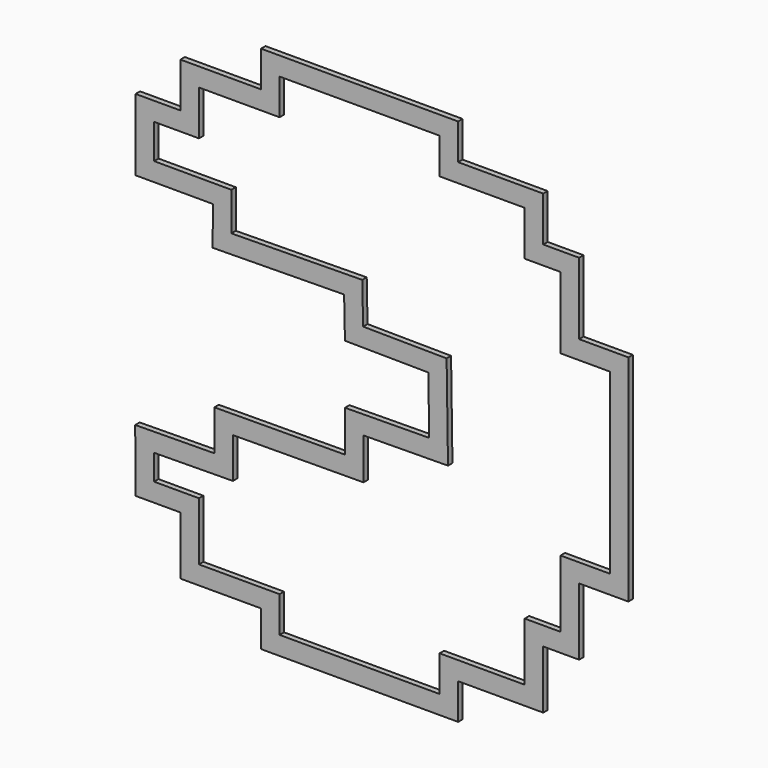
from build123d import *

# Parameters (mm, degrees)
F1_DEPTH = 6


with BuildPart() as f1:
    # F0 (on Front) → F1 (new body)
    with BuildSketch(Plane.XZ):
        Polygon((265.897079, -111.097285), (265.897079, 120.763555), (212.761675, 120.763555), (212.761675, 198.045397), (174.114259, 198.045397), (174.114259, 246.352586), (82.3411, 246.352586), (82.3411, 285.000002), (-130.196029, 285.000002), (-130.196029, 246.352586), (-217.152296, 246.352586), (-217.152296, 198.045397), (-265.461152, 198.045397), (-265.461152, 120.763555), (-182.215667, 120.657777), (-182.292131, 78.99439), (-40.622253, 80.756165), (-39.717878, 37.151925), (50.208882, 36.247385), (51.121586, -25.518982), (-39.717878, -26.429854), (-39.717878, -70.935305), (-180.510698, -71.846343), (-180.510698, -115.447249), (-265.897079, -116.364784), (-265.461152, -183.560564), (-217.152296, -183.560564), (-217.152296, -246.360741), (-130.196029, -246.360741), (-130.196029, -284.999998), (82.3411, -284.999998), (82.3411, -246.360741), (174.114259, -246.360741), (174.114259, -183.560564), (212.761675, -183.560564), (212.761675, -111.097285), align=None)
        Polygon((-160.510697, -135.233492), (-160.510697, -91.717348), (-19.717877, -90.80631), (-19.717877, -46.230316), (71.416314, -45.316488), (69.918447, 56.050147), (-20.124319, 56.955854), (-21.037844, 101.00126), (-162.25493, 99.245116), (-162.178973, 140.632335), (-245.46115, 140.738159), (-245.46115, 178.045396), (-197.152295, 178.045396), (-197.152295, 226.352585), (-110.196027, 226.352585), (-110.196027, 265.000001), (62.341099, 265.000001), (62.341099, 226.352585), (154.114258, 226.352585), (154.114258, 178.045396), (192.761674, 178.045396), (192.761674, 100.763553), (245.897078, 100.763553), (245.897078, -91.097283), (192.761674, -91.097283), (192.761674, -163.560562), (154.114258, -163.560562), (154.114258, -226.360739), (62.341099, -226.360739), (62.341099, -264.999996), (-110.196027, -264.999996), (-110.196027, -226.360739), (-197.152295, -226.360739), (-197.152295, -163.560562), (-245.590478, -163.560562), (-245.768304, -136.149643), align=None, mode=Mode.SUBTRACT)
    extrude(amount=F1_DEPTH)


solid = f1.part
